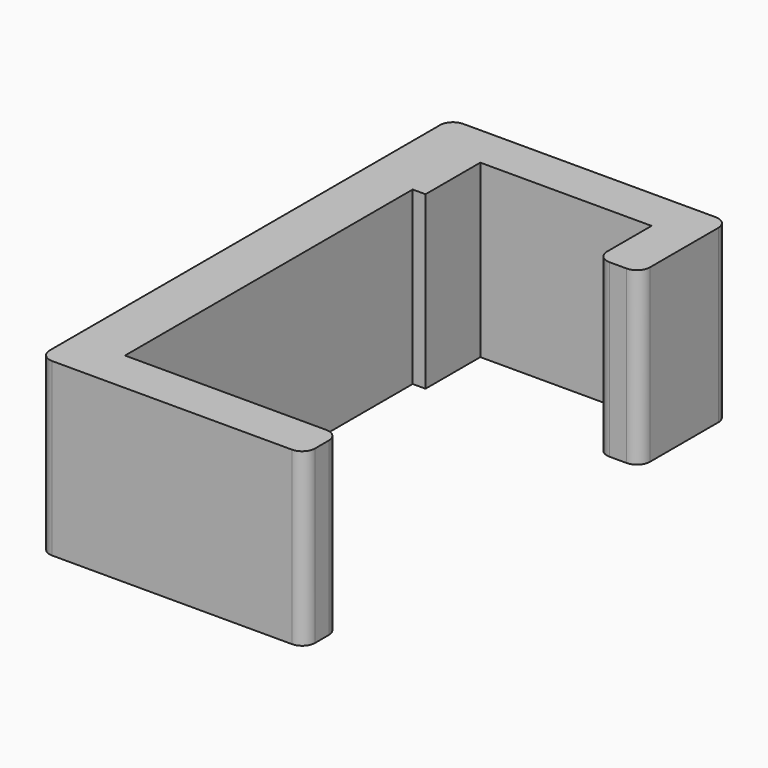
from build123d import *

# Parameters (mm, degrees)
EXTRUDE_DEPTH = 20
FILLET_R      = 1.5


with BuildPart() as part:
    # Sketch → Extrude (new body)
    with BuildSketch(Plane.XY):
        Polygon((31, 0), (31, 5), (6, 5), (6, 47), (7.5, 47), (7.5, 55), (27.5, 55), (27.5, 47), (32.5, 47), (32.5, 55), (32.5, 60), (6, 60), (0, 60), (0, 0), (6, 0), align=None)
    extrude(amount=EXTRUDE_DEPTH)

    # Fillet
    fillet_edges = [part.edges().sort_by_distance(p)[0] for p in [
        (0, 60, 10),
        (0, 0, 10),
        (31, 0, 10),
        (31, 5, 10),
        (27.5, 47, 10),
        (32.5, 47, 10),
        (32.5, 60, 10),
    ]]
    fillet(fillet_edges, radius=FILLET_R)


solid = part.part
